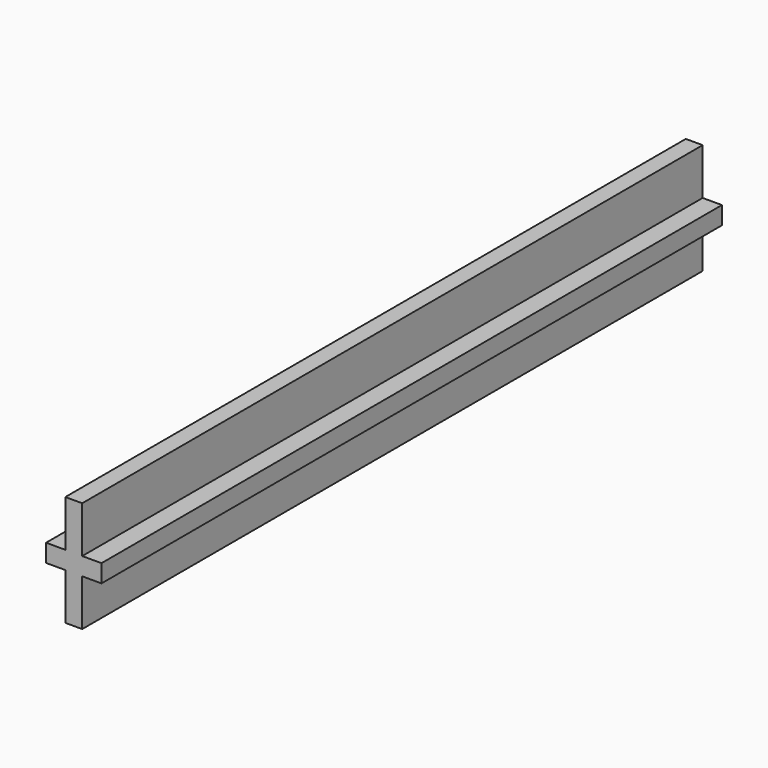
from build123d import *

# Parameters (mm, degrees)
F0_W     = 7.7304354078
F0_H     = 21.3139118999
F0_W_2   = 8.8347822961
F0_H_2   = 8.1721762002
F1_DEPTH = 355.6


with BuildPart() as f1:
    # F0 (on Front) → F1 (new body)
    with BuildSketch(Plane.XZ):
        with Locations((0, 14.7430440501)):
            Rectangle(F0_W, F0_H)
        with Locations((-8.282608852, 0)):
            Rectangle(F0_W_2, F0_H_2)
        with Locations((8.282608852, 0)):
            Rectangle(F0_W_2, F0_H_2)
        with Locations((0, -14.7430440501)):
            Rectangle(F0_W, F0_H)
        Rectangle(F0_W, F0_H_2)
    extrude(amount=F1_DEPTH)


solid = f1.part
